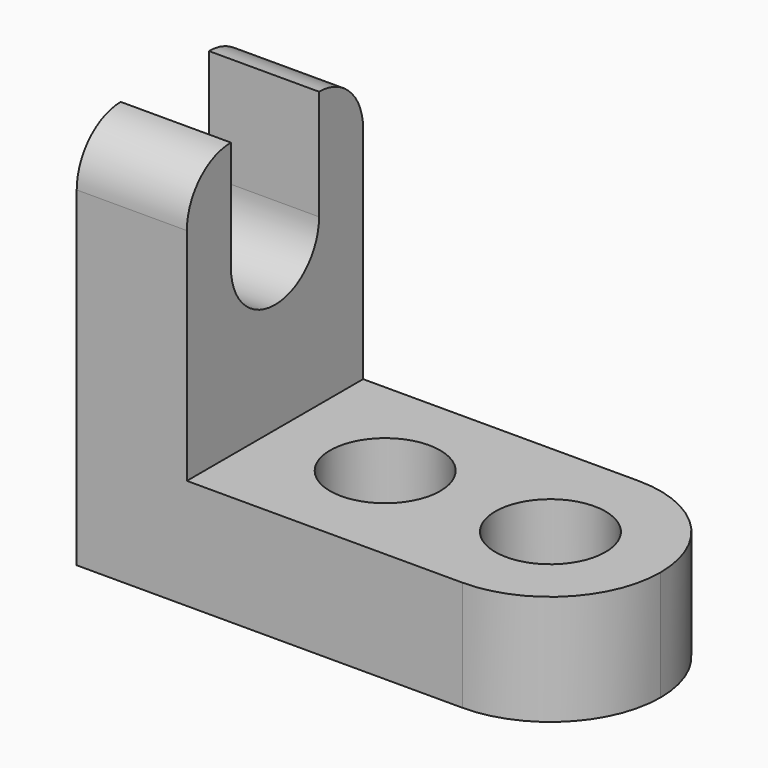
from build123d import *

# Parameters (mm, degrees)
F1_DEPTH = 25.4
F2_R     = 6.35
F3_DEPTH = 25.4
F5_DEPTH = 25.4
F7_DEPTH = 25.4


with BuildPart() as f1:
    # F0 (on Front) → F1 (new body)
    with BuildSketch(Plane.XZ):
        Polygon((-57.15, 0), (0, 0), (0, 12.7), (-44.45, 12.7), (-44.45, 44.45), (-57.15, 44.45), align=None)
    extrude(amount=F1_DEPTH)

    # F2 (on Top) → F3 (cut)
    with BuildSketch(Plane.XY):
        with Locations((-31.75, -12.7)):
            Circle(F2_R)
        with Locations((-12.7, -12.7)):
            Circle(F2_R)
        with BuildLine():
            Line((0, -25.4), (0, -12.7))
            ThreePointArc((0, -12.7), (-3.719744, -21.680256), (-12.7, -25.4))
            Line((-12.7, -25.4), (0, -25.4))
        make_face()
        with BuildLine():
            ThreePointArc((-12.7, 0), (-3.719744, -3.719744), (0, -12.7))
            Line((0, -12.7), (0, 0))
            Line((0, 0), (-12.7, 0))
        make_face()
    extrude(amount=F3_DEPTH, mode=Mode.SUBTRACT)

    # F4 (on face) → F5 (cut)
    with BuildSketch(Plane.YZ.offset(-44.45)):
        with BuildLine():
            Line((-6.35, 31.75), (-6.35, 44.45))
            Line((-6.35, 44.45), (-19.05, 44.45))
            Line((-19.05, 44.45), (-19.05, 31.75))
            ThreePointArc((-19.05, 31.75), (-12.7, 25.4), (-6.35, 31.75))
        make_face()
    extrude(amount=-F5_DEPTH, mode=Mode.SUBTRACT)

    # F6 (on face) → F7 (cut)
    with BuildSketch(Plane.YZ.offset(-44.45)):
        with BuildLine():
            ThreePointArc((-25.4, 38.1), (-23.540128, 42.590128), (-19.05, 44.45))
            Line((-19.05, 44.45), (-25.4, 44.45))
            Line((-25.4, 44.45), (-25.4, 38.1))
        make_face()
        with BuildLine():
            ThreePointArc((-6.35, 44.45), (-1.859872, 42.590128), (0, 38.1))
            Line((0, 38.1), (0, 44.45))
            Line((0, 44.45), (-6.35, 44.45))
        make_face()
    extrude(amount=-F7_DEPTH, mode=Mode.SUBTRACT)


solid = f1.part
